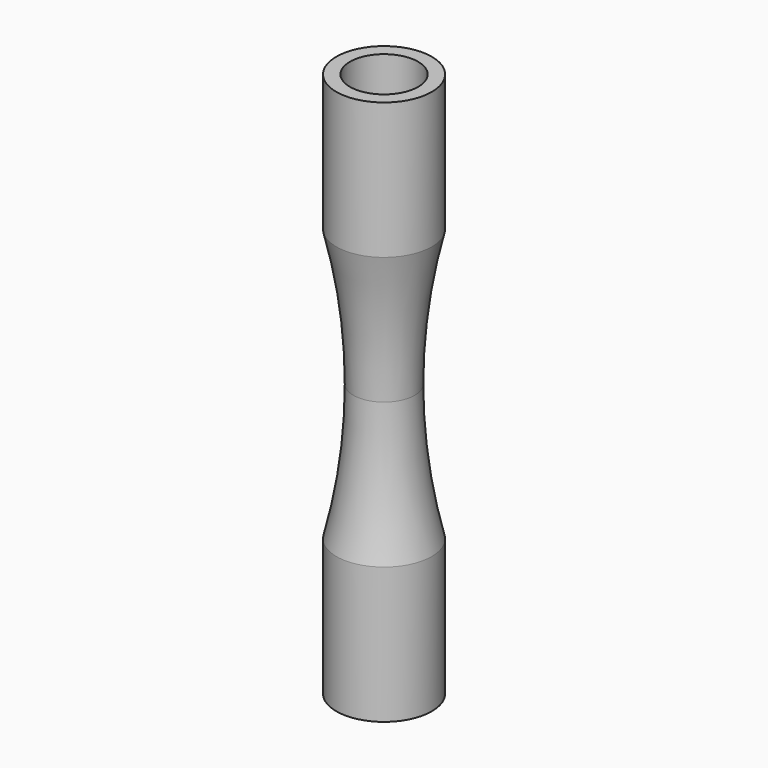
from build123d import *


with BuildPart() as f1:
    # F0 (on Front) → F1 (revolve)
    with BuildSketch(Plane.XZ):
        with BuildLine():
            Line((2.5, 10), (2.5, 0))
            Line((2.5, 0), (3.5, 0))
            Line((3.5, 0), (3.5, 10))
            ThreePointArc((3.5, 10), (2.563711, 14.961089), (2.25, 20))
            Line((2.25, 20), (1.25, 20))
            ThreePointArc((1.25, 20), (1.563711, 14.961089), (2.5, 10))
        make_face()
        with BuildLine():
            ThreePointArc((2.5, 30), (1.563711, 25.038911), (1.25, 20))
            Line((1.25, 20), (2.25, 20))
            ThreePointArc((2.25, 20), (2.563711, 25.038911), (3.5, 30))
            Line((3.5, 30), (3.5, 40))
            Line((3.5, 40), (2.5, 40))
            Line((2.5, 40), (2.5, 30))
        make_face()
    revolve(axis=Axis((0, 0, 20), (0, 0, 1)))


solid = f1.part
